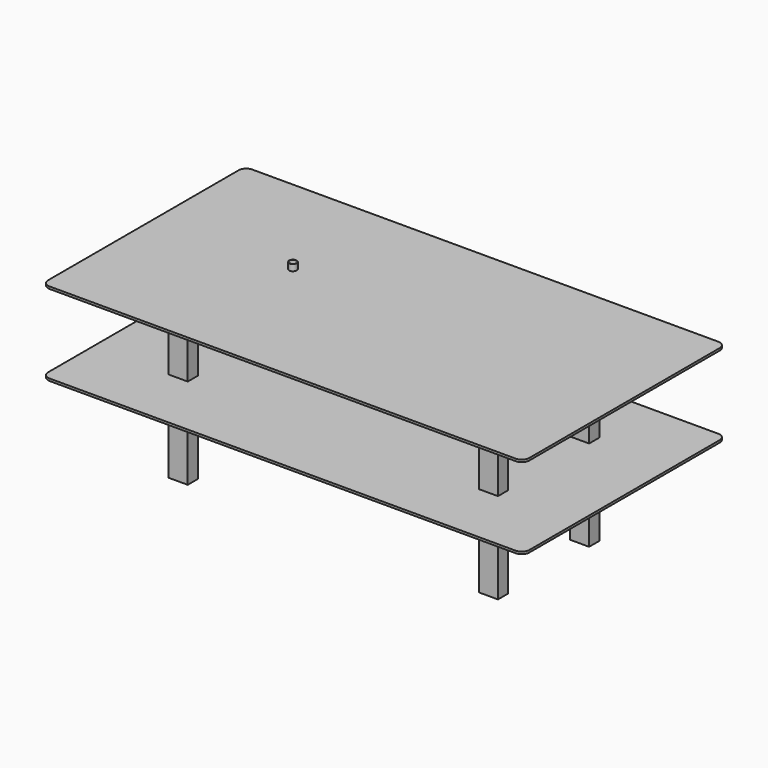
from build123d import *

# Parameters (mm, degrees)
F0_W     = 75
F0_H     = 50
F1_DEPTH = 9
F4_DEPTH = 9
F5_W     = 75
F5_H     = 50
F6_DEPTH = 670
F7_R     = 15
F7_R_2   = 13.8
F8_DEPTH = 25


with BuildPart() as f1:
    # F0 (on Top) → F1 (new body)
    with BuildSketch(Plane.XY):
        with BuildLine():
            Line((920, 500), (-920, 500))
            ThreePointArc((-920, 500), (-941.213203, 491.213203), (-950, 470))
            Line((-950, 470), (-950, -470))
            ThreePointArc((-950, -470), (-941.213203, -491.213203), (-920, -500))
            Line((-920, -500), (920, -500))
            ThreePointArc((920, -500), (941.213203, -491.213203), (950, -470))
            Line((950, -470), (950, 470))
            ThreePointArc((950, 470), (941.213203, 491.213203), (920, 500))
        make_face()
        with Locations((-612.5, -225)):
            Rectangle(F0_W, F0_H, mode=Mode.SUBTRACT)
        with Locations((612.5, -225)):
            Rectangle(F0_W, F0_H, mode=Mode.SUBTRACT)
        with Locations((-612.5, 225)):
            Rectangle(F0_W, F0_H, mode=Mode.SUBTRACT)
        with Locations((612.5, 225)):
            Rectangle(F0_W, F0_H, mode=Mode.SUBTRACT)
    extrude(amount=F1_DEPTH)


with BuildPart() as f4:
    # F3 (on offset) → F4 (new body)
    with BuildSketch(Plane.XY.offset(320)):
        with BuildLine():
            Line((-950, 470), (-950, -470))
            ThreePointArc((-950, -470), (-941.213203, -491.213203), (-920, -500))
            Line((-920, -500), (920, -500))
            ThreePointArc((920, -500), (941.213203, -491.213203), (950, -470))
            Line((950, -470), (950, 470))
            ThreePointArc((950, 470), (941.213203, 491.213203), (920, 500))
            Line((920, 500), (-920, 500))
            ThreePointArc((-920, 500), (-941.213203, 491.213203), (-950, 470))
        make_face()
    extrude(amount=F4_DEPTH)


with BuildPart() as f6:
    # F5 (on face) → F6 (new body)
    with BuildSketch(Plane(origin=(0, 0, 320), x_dir=(1, 0, 0), z_dir=(0, 0, -1))):
        with Locations((-612.5, 225)):
            Rectangle(F5_W, F5_H)
        with Locations((612.5, 225)):
            Rectangle(F5_W, F5_H)
        with Locations((612.5, -225)):
            Rectangle(F5_W, F5_H)
        with Locations((-612.5, -225)):
            Rectangle(F5_W, F5_H)
    extrude(amount=F6_DEPTH)


with BuildPart() as f8:
    # F7 (on face) → F8 (new body)
    with BuildSketch(Plane.XY.offset(329)):
        with Locations((-407.006383, 59.163444)):
            Circle(F7_R)
        with Locations((-407.006383, 59.163444)):
            Circle(F7_R_2, mode=Mode.SUBTRACT)
    extrude(amount=F8_DEPTH)


solid = Compound([f1.part, f4.part, f6.part, f8.part])
